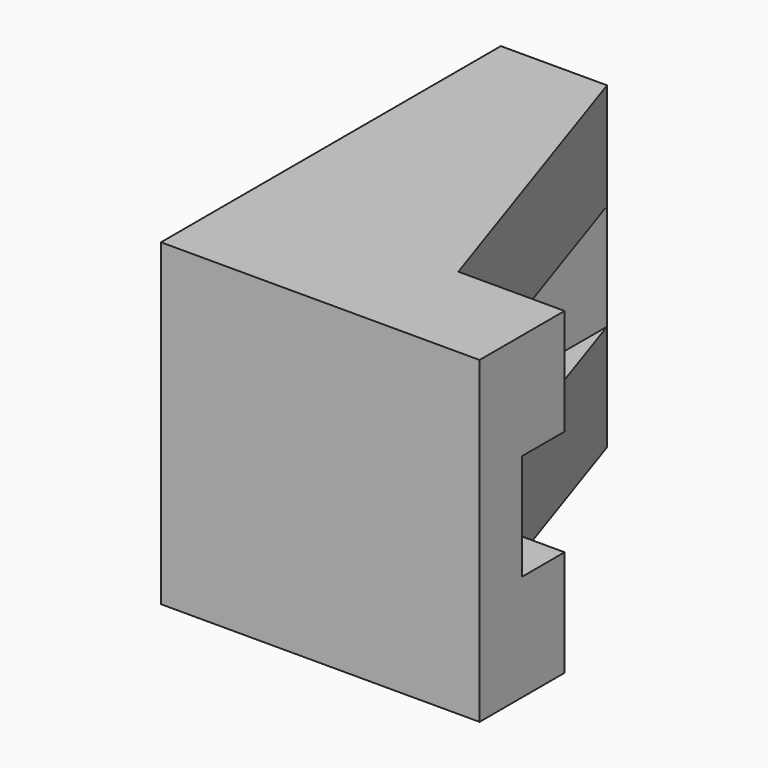
from build123d import *

# Parameters (mm, degrees)
F1_DEPTH = 30
F2_W     = 30
F2_H     = 10
F3_DEPTH = 35


with BuildPart() as f1:
    # F0 (on Top) → F1 (new body)
    with BuildSketch(Plane.XY):
        Polygon((-17.589656, 44.579074), (-27.589656, 44.579074), (-27.589656, 4.579074), (2.410344, 4.579074), (2.410344, 14.579074), (-7.589656, 14.579074), align=None)
    extrude(amount=F1_DEPTH)

    # F2 (on face) → F3 (cut)
    with BuildSketch(Plane(origin=(0, 44.579074, 0), x_dir=(-1, 0, 0), z_dir=(0, 1, 0))):
        with Locations((2.589656, 15)):
            Rectangle(F2_W, F2_H)
    extrude(amount=-F3_DEPTH, mode=Mode.SUBTRACT)


solid = f1.part
